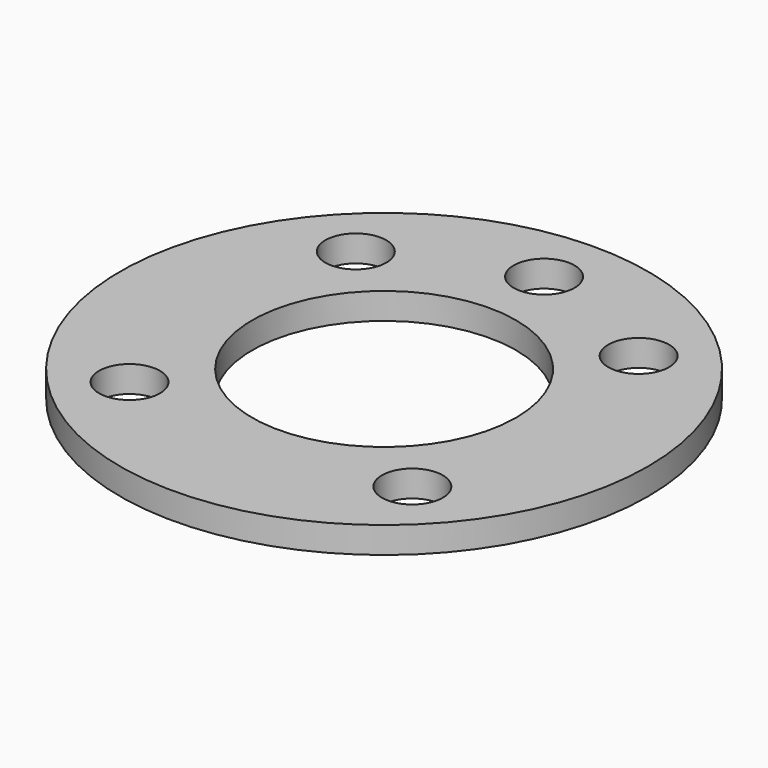
from build123d import *

# Parameters (mm, degrees)
F0_R     = 33.02
F1_DEPTH = 3.302
F2_R     = 16.51
F3_DEPTH = 3.303
F5_D     = 7.62


with BuildPart() as f1:
    # F0 (on Top) → F1 (new body)
    with BuildSketch(Plane.XY):
        Circle(F0_R)
    extrude(amount=F1_DEPTH)

    # F2 (on face) → F3 (cut, through all)
    with BuildSketch(Plane.XY.offset(3.302)):
        Circle(F2_R)
    extrude(amount=-F3_DEPTH, mode=Mode.SUBTRACT)

    # F5 (through all)
    with Locations(Plane.XY.offset(3.302)):
        with Locations((17.691105, -17.691105), (-17.691105, -17.691105), (17.691105, 17.691105), (0, 25.019), (-17.691105, 17.691105)):
            Hole(F5_D / 2)


solid = f1.part
